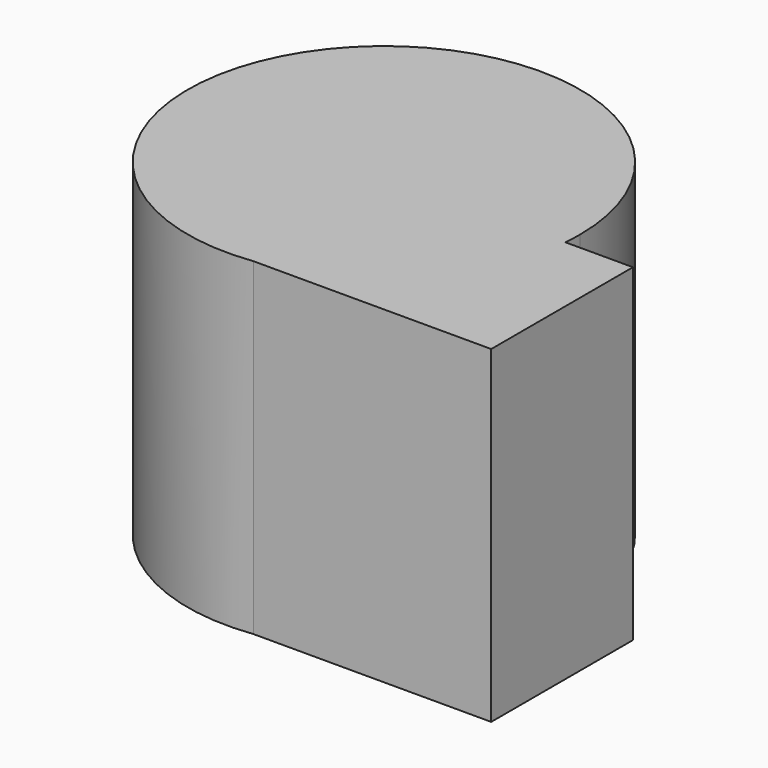
from build123d import *

# Parameters (mm, degrees)
F1_DEPTH = 30


with BuildPart() as f1:
    # F0 (on Top) → F1 (new body)
    with BuildSketch(Plane.XY):
        with BuildLine():
            Line((17.858347, -1.59188), (0, -1.59188))
            Line((0, -1.59188), (0, -17.782362))
            Line((0, -17.782362), (2.289595, -17.782362))
            ThreePointArc((2.289595, -17.782362), (12.923538, -12.427261), (17.858347, -1.59188))
        make_face()
        with BuildLine():
            Line((24.029288, -1.59188), (17.858347, -1.59188))
            ThreePointArc((17.858347, -1.59188), (12.923538, -12.427261), (2.289595, -17.782362))
            Line((2.289595, -17.782362), (24.029288, -17.782362))
            Line((24.029288, -17.782362), (24.029288, -1.59188))
        make_face()
        with BuildLine():
            Line((0, -17.782362), (0, -1.59188))
            Line((0, -1.59188), (17.858347, -1.59188))
            ThreePointArc((17.858347, -1.59188), (17.911445, -0.796727), (17.929156, 0))
            ThreePointArc((17.929156, 0), (-13.463008, 11.840696), (2.289595, -17.782362))
            Line((2.289595, -17.782362), (0, -17.782362))
        make_face()
    extrude(amount=F1_DEPTH)


solid = f1.part
